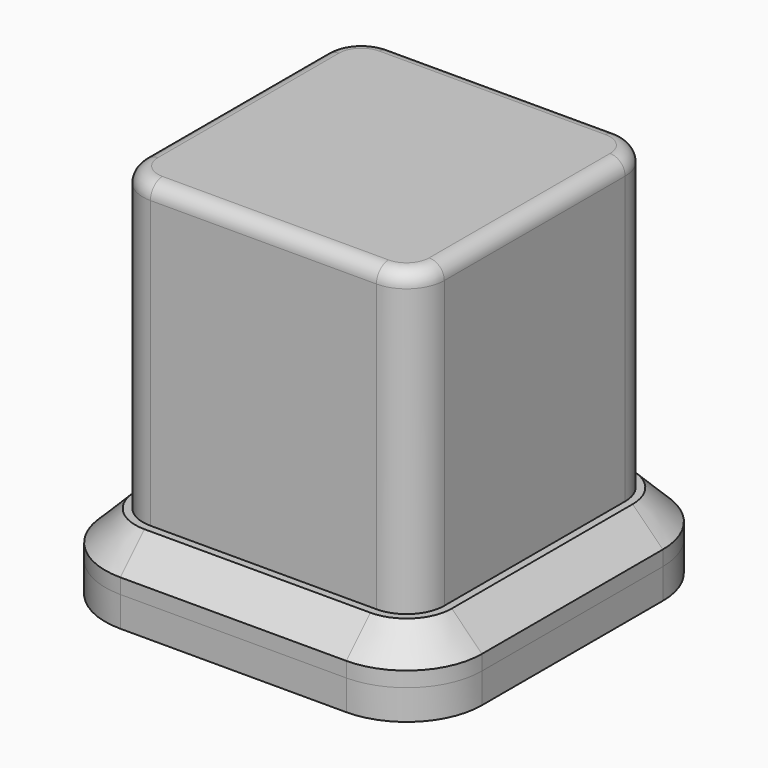
from build123d import *

# Parameters (mm, degrees)
F1_DEPTH = 4
F2_START = 4
F2_DEPTH = 6
F3_SIZE  = 4
F4_DEPTH = 50
F5_R     = 2


with BuildPart() as f1:
    # F0 (on Top) → F1 (new body)
    with BuildSketch(Plane.XY):
        with BuildLine():
            ThreePointArc((0, 10), (2.9289321881, 2.9289321881), (10, 0))
            Line((10, 0), (40, 0))
            ThreePointArc((40, 0), (47.0710678119, 2.9289321881), (50, 10))
            Line((50, 10), (50, 40))
            ThreePointArc((50, 40), (47.0710678119, 47.0710678119), (40, 50))
            Line((40, 50), (10, 50))
            ThreePointArc((10, 50), (2.9289321881, 47.0710678119), (0, 40))
            Line((0, 40), (0, 10))
        make_face()
        with BuildLine():
            Line((40, 5), (10, 5))
            ThreePointArc((10, 5), (6.4644660941, 6.4644660941), (5, 10))
            Line((5, 10), (5, 40))
            ThreePointArc((5, 40), (6.4644660941, 43.5355339059), (10, 45))
            Line((10, 45), (40, 45))
            ThreePointArc((40, 45), (43.5355339059, 43.5355339059), (45, 40))
            Line((45, 40), (45, 10))
            ThreePointArc((45, 10), (43.5355339059, 6.4644660941), (40, 5))
        make_face(mode=Mode.SUBTRACT)
    extrude(amount=F1_DEPTH)


with BuildPart() as f2:
    # F0 (on Top) → F2 (new body)
    with BuildSketch(Plane.XY.offset(F2_START)):
        with BuildLine():
            ThreePointArc((0, 10), (2.9289321881, 2.9289321881), (10, 0))
            Line((10, 0), (40, 0))
            ThreePointArc((40, 0), (47.0710678119, 2.9289321881), (50, 10))
            Line((50, 10), (50, 40))
            ThreePointArc((50, 40), (47.0710678119, 47.0710678119), (40, 50))
            Line((40, 50), (10, 50))
            ThreePointArc((10, 50), (2.9289321881, 47.0710678119), (0, 40))
            Line((0, 40), (0, 10))
        make_face()
        with BuildLine():
            Line((40, 5), (10, 5))
            ThreePointArc((10, 5), (6.4644660941, 6.4644660941), (5, 10))
            Line((5, 10), (5, 40))
            ThreePointArc((5, 40), (6.4644660941, 43.5355339059), (10, 45))
            Line((10, 45), (40, 45))
            ThreePointArc((40, 45), (43.5355339059, 43.5355339059), (45, 40))
            Line((45, 40), (45, 10))
            ThreePointArc((45, 10), (43.5355339059, 6.4644660941), (40, 5))
        make_face(mode=Mode.SUBTRACT)
    extrude(amount=F2_DEPTH)

    # F3
    f3_edges = [f2.edges().sort_by_distance(p)[0] for p in [
        (50, 25, 10),
    ]]
    chamfer(f3_edges, length=F3_SIZE)


with BuildPart() as f4:
    # F0 (on Top) → F4 (new body)
    with BuildSketch(Plane.XY):
        with BuildLine():
            ThreePointArc((5, 10), (6.4644660941, 6.4644660941), (10, 5))
            Line((10, 5), (40, 5))
            ThreePointArc((40, 5), (43.5355339059, 6.4644660941), (45, 10))
            Line((45, 10), (45, 40))
            ThreePointArc((45, 40), (43.5355339059, 43.5355339059), (40, 45))
            Line((40, 45), (10, 45))
            ThreePointArc((10, 45), (6.4644660941, 43.5355339059), (5, 40))
            Line((5, 40), (5, 10))
        make_face()
    extrude(amount=F4_DEPTH)

    # F5
    f5_edges = [f4.edges().sort_by_distance(p)[0] for p in [
        (25, 45, 50),
    ]]
    fillet(f5_edges, radius=F5_R)


solid = Compound([f1.part, f2.part, f4.part])
